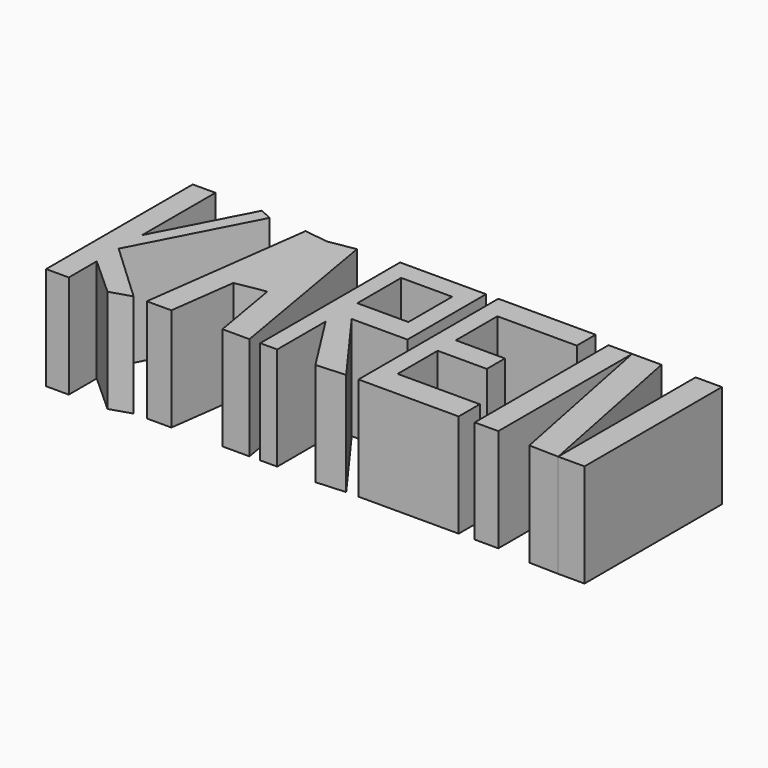
from build123d import *

# Parameters (mm, degrees)
F1_DEPTH = 25.4
F0_W     = 4.4191577472
F0_H     = 13.4900575504
F0_W_2   = 19.5373245515
F0_H_2   = 5.814678967
F0_W_3   = 20.2350844629
F0_H_3   = 6.5124416724
F0_W_4   = 12.0945353992
F0_H_4   = 5.5820932612
F0_W_5   = 6.4767877425
F0_H_5   = 42.2775222197
F0_W_6   = 5.8146826923
F0_H_6   = 41.1679372191


with BuildPart() as f1:
    # F0 (on Top) → F1 (new body)
    with BuildSketch(Plane.XY):
        Polygon((-66.9851154089, 24.6542450041), (-72.5672096014, 24.6542450041), (-72.5672096014, -20.4676743597), (-66.9851154089, -20.4676743597), (-66.9851154089, -11.8619473651), (-66.9851154089, -5.1169185899), (-66.9851154089, 2.0932853222), align=None)
        Polygon((-55.3557574749, 24.4216565043), (-66.9851154089, 2.0932853222), (-66.9851154089, -5.1169185899), (-52.3283121177, 23.0241487059), align=None)
        Polygon((-52.3283121177, -18.8395641744), (-66.9851154089, -5.1169185899), (-66.9851154089, -11.8619473651), (-57.4490427971, -20.4676743597), align=None)
    extrude(amount=F1_DEPTH)


with BuildPart() as f1b:
    # F0 (on Top) → F1, piece 2 (new body)
    with BuildSketch(Plane.XY):
        Polygon((-43.4938073158, 23.0241487059), (-49.0759015083, -18.8395641744), (-43.0288986208, -18.8395641744), (-40.847143666, -2.4771811952), (-40.290668719, 1.6961821705), (-37.5524388172, 22.2319285154), align=None)
        Polygon((-34.1920848854, 2.7479922289), (-37.5524388172, 22.2319285154), (-40.290668719, 1.6961821705), align=None)
        Polygon((-31.0933983727, 23.3459057752), (-37.5524388172, 22.2319285154), (-34.1920848854, 2.7479922289), (-33.5091791969, -1.2116177386), (-30.4689239711, -18.8395641744), (-23.8177581876, -18.8395641744), align=None)
        Polygon((-40.290668719, 1.6961821705), (-40.847143666, -2.4771811952), (-33.5091791969, -1.2116177386), (-34.1920848854, 2.7479922289), align=None)
    extrude(amount=F1_DEPTH)


with BuildPart() as f1c:
    # F0 (on Top) → F1, piece 3 (new body)
    with BuildSketch(Plane.XY):
        Polygon((-21.1654342711, 24.1890698671), (-21.1654342711, -18.8395641744), (-16.9788654894, -18.8395641744), (-16.9788654894, -3.9539826103), (-16.9788654894, 0), (-16.9788654894, 5.8146798983), (-16.9788654894, 19.3047374487), (-16.9788654894, 24.1890698671), align=None)
        Polygon((-16.9788654894, 0), (-16.9788654894, -3.9539826103), (-7.2102043778, -19.3047374487), (0, -18.8395641744), (-13.7226460502, 0), align=None)
        Polygon((0, 24.1890698671), (-16.9788654894, 24.1890698671), (-16.9788654894, 19.3047374487), (-4.4191577472, 19.3047374487), (0, 19.3047374487), align=None)
        Polygon((-16.9788654894, 5.8146798983), (-16.9788654894, 0), (-13.7226460502, 0), (0, 0), (0, 5.8146798983), (-4.4191577472, 5.8146798983), align=None)
        with Locations((-2.2095788736, 12.5597086735)):
            Rectangle(F0_W, F0_H)
    extrude(amount=F1_DEPTH)


with BuildPart() as f1d:
    # F0 (on Top) → F1, piece 4 (new body)
    with BuildSketch(Plane.XY):
        Polygon((7.4427924119, 24.1890698671), (3.0236341991, 24.1890698671), (3.0236341991, -18.8395641744), (7.4427924119, -18.8395641744), (7.4427924119, -12.327122502), (7.4427924119, 0), (7.4427924119, 5.5820932612), (7.4427924119, 18.3743909001), align=None)
        with Locations((17.2114546876, 21.2817303836)):
            Rectangle(F0_W_2, F0_H_2)
        with Locations((17.5603346433, -15.5833433382)):
            Rectangle(F0_W_3, F0_H_3)
        with Locations((13.4900601115, 2.7910466306)):
            Rectangle(F0_W_4, F0_H_4)
    extrude(amount=F1_DEPTH)


with BuildPart() as f1e:
    # F0 (on Top) → F1, piece 5 (new body)
    with BuildSketch(Plane.XY):
        with Locations((56.3039305227, 1.1896119349)):
            Rectangle(F0_W_5, F0_H_5)
    extrude(amount=F1_DEPTH)


with BuildPart() as f1f:
    # F0 (on Top) → F1, piece 6 (new body)
    with BuildSketch(Plane.XY):
        Polygon((44.6567460895, 22.3283730447), (37.4465435743, 22.3283730447), (45.8196848631, -19.7699125856), (53.0655366514, -19.949149175), align=None)
    extrude(amount=F1_DEPTH)


with BuildPart() as f1g:
    # F0 (on Top) → F1, piece 7 (new body)
    with BuildSketch(Plane.XY):
        with Locations((34.5392022282, 1.7444044352)):
            Rectangle(F0_W_6, F0_H_6)
    extrude(amount=F1_DEPTH)


solid = Compound([f1.part, f1b.part, f1c.part, f1d.part, f1e.part, f1f.part, f1g.part])
